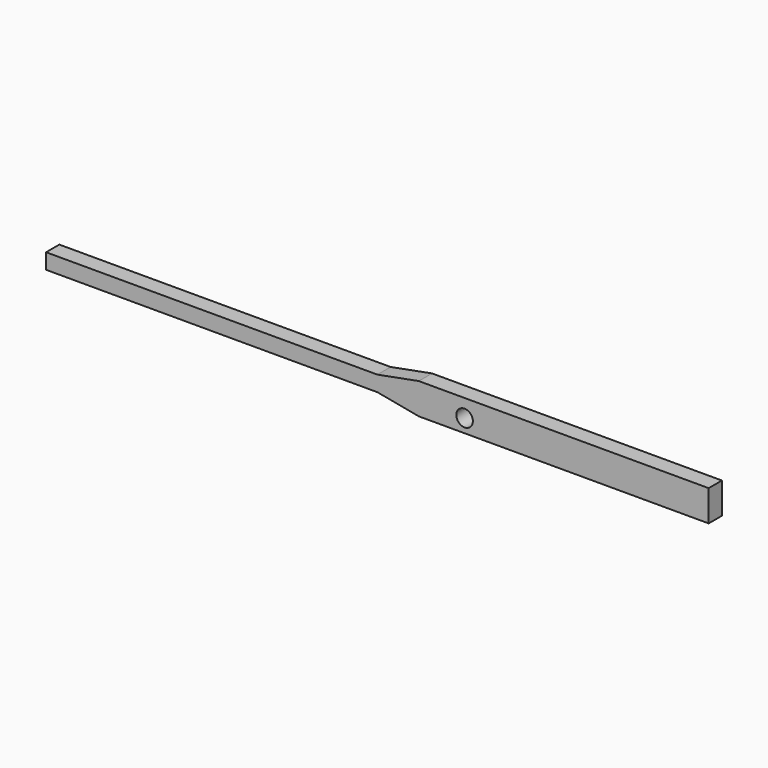
from build123d import *

# Parameters (mm, degrees)
F1_DEPTH = 5.08
F2_R     = 2.54
F3_DEPTH = 25.4


with BuildPart() as f1:
    # F0 (on Front) → F1 (new body)
    with BuildSketch(Plane.XZ):
        Polygon((101.6, 0), (101.6, 4.7625), (12.7, 4.7625), (0, 2.3749), (-101.6, 2.3749), (-101.6, 0), (-101.6, -2.3749), (0, -2.3749), (12.7, -4.7625), (101.6, -4.7625), align=None)
    extrude(amount=F1_DEPTH)

    # F2 (on face) → F3 (cut)
    with BuildSketch(Plane.XZ.offset(5.08)):
        with Locations((26.745375, -0.651371)):
            Circle(F2_R)
    extrude(amount=-F3_DEPTH, mode=Mode.SUBTRACT)


solid = f1.part
